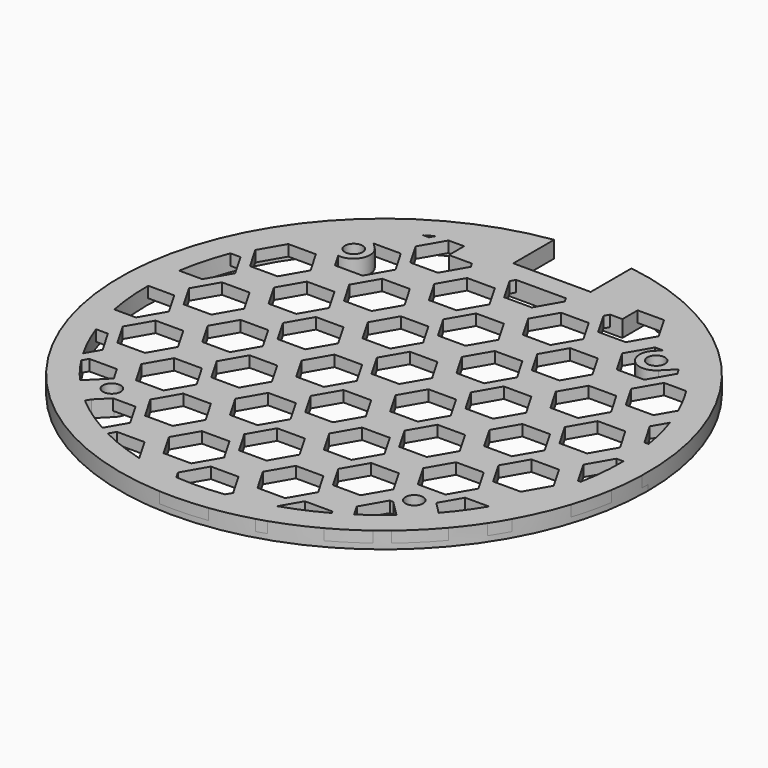
from build123d import *

# Parameters (mm, degrees)
SKETCH012_R                     = 47.75
SKETCH012_R_2                   = 1.5
PAD003_DEPTH                    = 3
SKETCH010_R                     = 47.75
PAD002_DEPTH                    = 2
POCKET002_DEPTH                 = 5
POCKET002_LINEARPATTERN_2_DEPTH = 5
POCKET002_LINEARPATTERN_3_DEPTH = 5
POCKET002_LINEARPATTERN_4_DEPTH = 5
POCKET002_LINEARPATTERN_5_DEPTH = 5
POCKET002_LINEARPATTERN_6_DEPTH = 5
LINEARPATTERN001_COUNT          = 7
LINEARPATTERN001_PITCH          = 15
SKETCH013_R                     = 1.598554
SKETCH013_W                     = 14
SKETCH013_H                     = 10
POCKET003_DEPTH                 = 5


with BuildPart() as obj1:
    # Sketch012 → Pad003 (new body)
    with BuildSketch(Plane.XY):
        Circle(SKETCH012_R)
        with Locations((-27.361497, 27.361497)):
            Circle(SKETCH012_R_2, mode=Mode.SUBTRACT)
        with Locations((27.361497, 27.361497)):
            Circle(SKETCH012_R_2, mode=Mode.SUBTRACT)
        with Locations((27.361497, -27.361497)):
            Circle(SKETCH012_R_2, mode=Mode.SUBTRACT)
        with Locations((-27.361497, -27.361497)):
            Circle(SKETCH012_R_2, mode=Mode.SUBTRACT)
        with BuildLine():
            ThreePointArc((32.453061, -28.210421), (43.000337, 0), (32.453061, 28.210421))
            Line((29.482817, 25.240177), (32.453061, 28.210421))
            ThreePointArc((25.240177, 29.482818), (25.240176, 25.240177), (29.482817, 25.240177))
            Line((25.240177, 29.482818), (28.210421, 32.453061))
            ThreePointArc((28.210421, 32.453061), (22.279818, 36.778237), (15.7, 40.031725))
            Line((15.7, 40.031725), (15.7, 34.3))
            Line((-15.7, 34.3), (15.7, 34.3))
            Line((-15.7, 40.031725), (-15.7, 34.3))
            ThreePointArc((-15.7, 40.031725), (-22.291003, 36.771459), (-28.230157, 32.435895))
            Line((-25.271094, 29.476784), (-28.230157, 32.435895))
            ThreePointArc((-29.501198, 25.221781), (-25.270738, 25.246253), (-25.271094, 29.476784))
            Line((-29.501198, 25.221781), (-32.470166, 28.190731))
            ThreePointArc((-32.470166, 28.190731), (-43.000337, -6e-06), (-32.470158, -28.19074))
            Line((-29.501198, -25.22178), (-32.470158, -28.19074))
            ThreePointArc((-25.271096, -29.476785), (-25.270737, -25.246253), (-29.501198, -25.22178))
            Line((-25.271096, -29.476785), (-28.230183, -32.435872))
            ThreePointArc((-28.230183, -32.435872), (-0.011966, -43.000336), (28.212127, -32.451578))
            Line((25.159539, -29.39899), (28.212127, -32.451578))
            ThreePointArc((29.482817, -25.240177), (25.281699, -25.199451), (25.159539, -29.39899))
            Line((29.482817, -25.240177), (32.453061, -28.210421))
        make_face(mode=Mode.SUBTRACT)
    extrude(amount=PAD003_DEPTH)


with BuildPart() as grid:
    # Sketch010 (on Face1 of CopyFillet) → Pad002 (new body)
    with BuildSketch(Plane(origin=(0, 0, 3), x_dir=(1, 0, 0), z_dir=(0, 0, -1))):
        Circle(SKETCH010_R)
    extrude(amount=PAD002_DEPTH)

    # Sketch011 → Pocket002 (cut)
    with BuildSketch(Plane.XY):
        Polygon((-45.022494, -41.580858), (-47.522494, -37.250731), (-52.522494, -37.250731), (-55.022494, -41.580858), (-52.522494, -45.910985), (-47.522494, -45.910985), align=None)
        Polygon((-35.790443, -48.910985), (-38.290443, -44.580858), (-43.290443, -44.580858), (-45.790443, -48.910985), (-43.290443, -53.241112), (-38.290443, -53.241112), align=None)
    pocket002 = extrude(amount=POCKET002_DEPTH, mode=Mode.SUBTRACT)

    # Sketch011 LinearPattern 2 → Pocket002 LinearPattern 2 (cut)
    with BuildSketch(Plane(origin=(17, 0, 0), x_dir=(1, 0, 0), z_dir=(0, 0, 1))):
        Polygon((-45.022494, -41.580858), (-47.522494, -37.250731), (-52.522494, -37.250731), (-55.022494, -41.580858), (-52.522494, -45.910985), (-47.522494, -45.910985), align=None)
        Polygon((-35.790443, -48.910985), (-38.290443, -44.580858), (-43.290443, -44.580858), (-45.790443, -48.910985), (-43.290443, -53.241112), (-38.290443, -53.241112), align=None)
    pocket002_linearpattern_2 = extrude(amount=POCKET002_LINEARPATTERN_2_DEPTH, mode=Mode.SUBTRACT)

    # Sketch011 LinearPattern 3 → Pocket002 LinearPattern 3 (cut)
    with BuildSketch(Plane(origin=(34, 0, 0), x_dir=(1, 0, 0), z_dir=(0, 0, 1))):
        Polygon((-45.022494, -41.580858), (-47.522494, -37.250731), (-52.522494, -37.250731), (-55.022494, -41.580858), (-52.522494, -45.910985), (-47.522494, -45.910985), align=None)
        Polygon((-35.790443, -48.910985), (-38.290443, -44.580858), (-43.290443, -44.580858), (-45.790443, -48.910985), (-43.290443, -53.241112), (-38.290443, -53.241112), align=None)
    pocket002_linearpattern_3 = extrude(amount=POCKET002_LINEARPATTERN_3_DEPTH, mode=Mode.SUBTRACT)

    # Sketch011 LinearPattern 4 → Pocket002 LinearPattern 4 (cut)
    with BuildSketch(Plane(origin=(51, 0, 0), x_dir=(1, 0, 0), z_dir=(0, 0, 1))):
        Polygon((-45.022494, -41.580858), (-47.522494, -37.250731), (-52.522494, -37.250731), (-55.022494, -41.580858), (-52.522494, -45.910985), (-47.522494, -45.910985), align=None)
        Polygon((-35.790443, -48.910985), (-38.290443, -44.580858), (-43.290443, -44.580858), (-45.790443, -48.910985), (-43.290443, -53.241112), (-38.290443, -53.241112), align=None)
    pocket002_linearpattern_4 = extrude(amount=POCKET002_LINEARPATTERN_4_DEPTH, mode=Mode.SUBTRACT)

    # Sketch011 LinearPattern 5 → Pocket002 LinearPattern 5 (cut)
    with BuildSketch(Plane(origin=(68, 0, 0), x_dir=(1, 0, 0), z_dir=(0, 0, 1))):
        Polygon((-45.022494, -41.580858), (-47.522494, -37.250731), (-52.522494, -37.250731), (-55.022494, -41.580858), (-52.522494, -45.910985), (-47.522494, -45.910985), align=None)
        Polygon((-35.790443, -48.910985), (-38.290443, -44.580858), (-43.290443, -44.580858), (-45.790443, -48.910985), (-43.290443, -53.241112), (-38.290443, -53.241112), align=None)
    pocket002_linearpattern_5 = extrude(amount=POCKET002_LINEARPATTERN_5_DEPTH, mode=Mode.SUBTRACT)

    # Sketch011 LinearPattern 6 → Pocket002 LinearPattern 6 (cut)
    with BuildSketch(Plane(origin=(85, 0, 0), x_dir=(1, 0, 0), z_dir=(0, 0, 1))):
        Polygon((-45.022494, -41.580858), (-47.522494, -37.250731), (-52.522494, -37.250731), (-55.022494, -41.580858), (-52.522494, -45.910985), (-47.522494, -45.910985), align=None)
        Polygon((-35.790443, -48.910985), (-38.290443, -44.580858), (-43.290443, -44.580858), (-45.790443, -48.910985), (-43.290443, -53.241112), (-38.290443, -53.241112), align=None)
    pocket002_linearpattern_6 = extrude(amount=POCKET002_LINEARPATTERN_6_DEPTH, mode=Mode.SUBTRACT)

    # LinearPattern001: Pocket002, Pocket002 LinearPattern 2, Pocket002 LinearPattern 3, Pocket002 LinearPattern 4, Pocket002 LinearPattern 5, Pocket002 LinearPattern 6 ×7
    with Locations(*[(0, i * LINEARPATTERN001_PITCH, 0) for i in range(1, LINEARPATTERN001_COUNT)]):
        add(pocket002, mode=Mode.SUBTRACT)
        add(pocket002_linearpattern_2, mode=Mode.SUBTRACT)
        add(pocket002_linearpattern_3, mode=Mode.SUBTRACT)
        add(pocket002_linearpattern_4, mode=Mode.SUBTRACT)
        add(pocket002_linearpattern_5, mode=Mode.SUBTRACT)
        add(pocket002_linearpattern_6, mode=Mode.SUBTRACT)

    # Boolean: union obj1
    add(obj1.part)

    # Sketch013 → Pocket003 (cut)
    with BuildSketch(Plane.XY.offset(3)):
        with Locations((27.361497, 27.361497)):
            Circle(SKETCH013_R)
        with Locations((27.361497, -27.361497)):
            Circle(SKETCH013_R)
        with Locations((-27.361497, 27.361497)):
            Circle(SKETCH013_R)
        with Locations((-27.361497, -27.361497)):
            Circle(SKETCH013_R)
        with Locations((0, 43)):
            Rectangle(SKETCH013_W, SKETCH013_H)
    extrude(amount=-POCKET003_DEPTH, mode=Mode.SUBTRACT)


solid = grid.part
